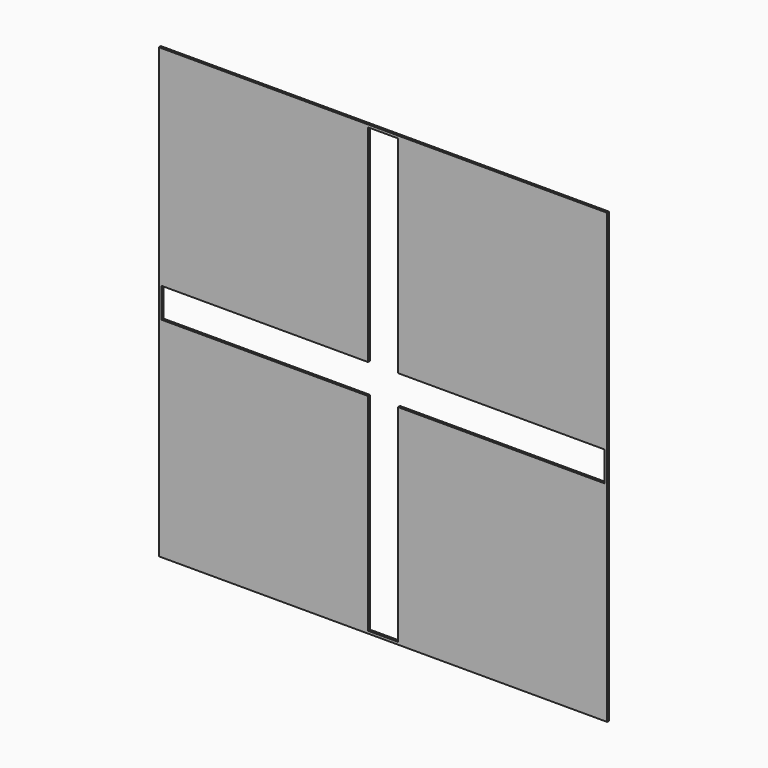
from build123d import *

# Parameters (mm, degrees)
F0_W     = 0.1524
F0_H     = 0.0254
F0_W_2   = 0.0254
F0_H_2   = 0.1524
F1_DEPTH = 0.0254


with BuildPart() as f1:
    # F0 (on Front) → F1 (new body)
    with BuildSketch(Plane.XZ):
        Polygon((0, 2.1336), (0, 0), (2.1336, 0), (2.1336, 0.0254), (2.1336, 2.1336), (0.0254, 2.1336), align=None)
        with Locations((2.2098, 0.0127)):
            Rectangle(F0_W, F0_H)
        with Locations((0.0127, 2.2098)):
            Rectangle(F0_W_2, F0_H_2)
        with Locations((2.3622, 0.0127)):
            Rectangle(F0_W, F0_H)
        with Locations((0.0127, 2.3622)):
            Rectangle(F0_W_2, F0_H_2)
        Polygon((2.4384, 0.0254), (2.4384, 0), (4.572, 0), (4.572, 2.1336), (4.5466, 2.1336), (2.4384, 2.1336), align=None)
        Polygon((0, 4.572), (0, 2.4384), (0.0254, 2.4384), (2.1336, 2.4384), (2.1336, 4.5466), (2.1336, 4.572), align=None)
        with Locations((4.5593, 2.2098)):
            Rectangle(F0_W_2, F0_H_2)
        Polygon((2.267986, 4.572), (2.1336, 4.572), (2.1336, 4.5466), (2.286, 4.5466), (2.286, 4.572), (2.278709, 4.572), align=None)
        with Locations((4.5593, 2.3622)):
            Rectangle(F0_W_2, F0_H_2)
        Polygon((4.5466, 2.4384), (4.572, 2.4384), (4.572, 4.572), (2.4384, 4.572), (2.4384, 4.5466), (2.4384, 4.528079), (2.4384, 2.4384), align=None)
        Polygon((2.286, 4.572), (2.286, 4.5466), (2.4384, 4.5466), (2.4384, 4.572), (2.316148, 4.572), align=None)
    extrude(amount=F1_DEPTH)


solid = f1.part
